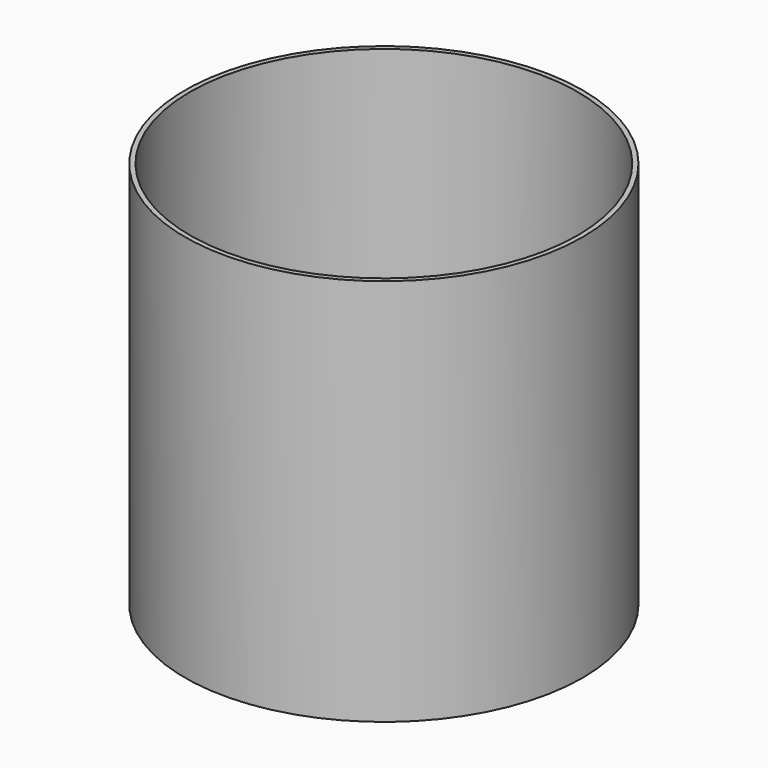
from build123d import *

# Parameters (mm, degrees)
CYLINDER006_R     = 40
CYLINDER006_DEPTH = 80
CYLINDER007_R     = 41
CYLINDER007_DEPTH = 80


with BuildPart() as cylinder006:
    # Cylinder006 → Cylinder006 (new body)
    with BuildSketch(Plane.XY.offset(1)):
        Circle(CYLINDER006_R)
    extrude(amount=CYLINDER006_DEPTH)


with BuildPart() as cut:
    # Cylinder007 → Cylinder007 (new body)
    with BuildSketch(Plane.XY.offset(1)):
        Circle(CYLINDER007_R)
    extrude(amount=CYLINDER007_DEPTH)

    # Cut: cut Cylinder006
    add(cylinder006.part, mode=Mode.SUBTRACT)


solid = cut.part
